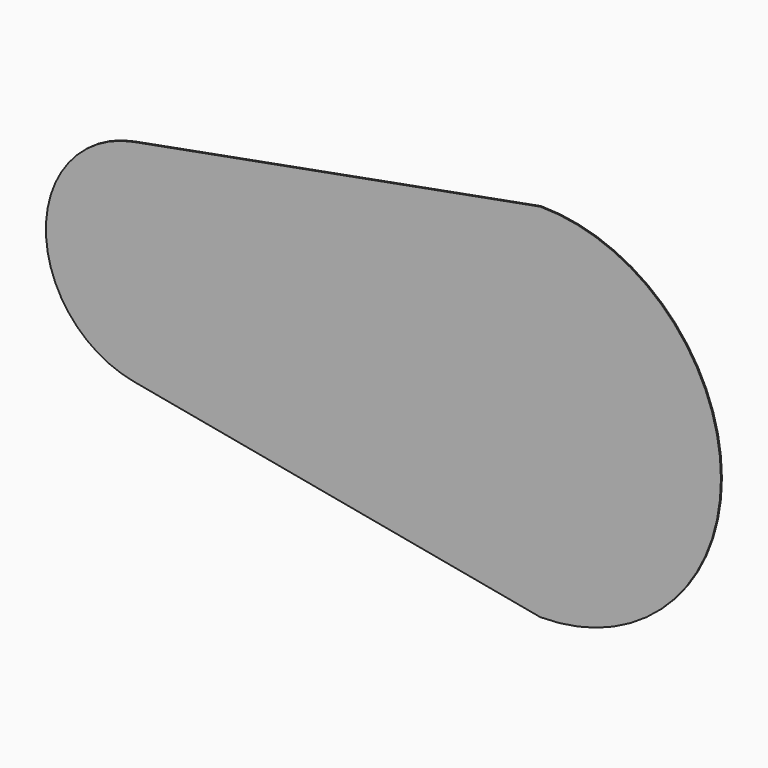
from build123d import *

# Parameters (mm, degrees)
F1_DEPTH = 0.75


with BuildPart() as f1:
    # F0 (on Front) → F1 (new body, symmetric)
    with BuildSketch(Plane.XZ):
        with BuildLine():
            Line((-512.0637332585, -132.7464613781), (-81.4068940509, -212.4362671509))
            ThreePointArc((-81.4068940509, -212.4362671509), (-187.4517516544, -128.9111740762), (-227.5, 0))
            Line((-227.5, 0), (-352.5, 0))
            ThreePointArc((-352.5, 0), (-401.1608547352, -103.7812699621), (-512.0637332585, -132.7464613781))
        make_face()
        with BuildLine():
            ThreePointArc((0, -227.5), (160.8667927199, -160.8667927199), (227.5, 0))
            ThreePointArc((227.5, 0), (160.8667927199, 160.8667927199), (0, 227.5))
            Line((0, 227.5), (-81.4068940509, 212.4362671509))
            ThreePointArc((-81.4068940509, 212.4362671509), (-187.4517516544, 128.9111740762), (-227.5, 0))
            ThreePointArc((-227.5, 0), (-187.4517516544, -128.9111740762), (-81.4068940509, -212.4362671509))
            Line((-81.4068940509, -212.4362671509), (0, -227.5))
        make_face()
        with BuildLine():
            ThreePointArc((-227.5, 0), (-187.4517516544, 128.9111740762), (-81.4068940509, 212.4362671509))
            Line((-81.4068940509, 212.4362671509), (-512.0637332585, 132.7464613781))
            ThreePointArc((-512.0637332585, 132.7464613781), (-401.1608547352, 103.7812699621), (-352.5, 0))
            Line((-352.5, 0), (-227.5, 0))
        make_face()
        with BuildLine():
            ThreePointArc((-622.5, 0), (-591.2812699621, -86.3391452648), (-512.0637332585, -132.7464613781))
            ThreePointArc((-512.0637332585, -132.7464613781), (-401.1608547352, -103.7812699621), (-352.5, 0))
            Line((-352.5, 0), (-622.5, 0))
        make_face()
        with BuildLine():
            ThreePointArc((-352.5, 0), (-401.1608547352, 103.7812699621), (-512.0637332585, 132.7464613781))
            ThreePointArc((-512.0637332585, 132.7464613781), (-591.2812699621, 86.3391452648), (-622.5, 0))
            Line((-622.5, 0), (-352.5, 0))
        make_face()
    extrude(amount=F1_DEPTH, both=True)


solid = f1.part
